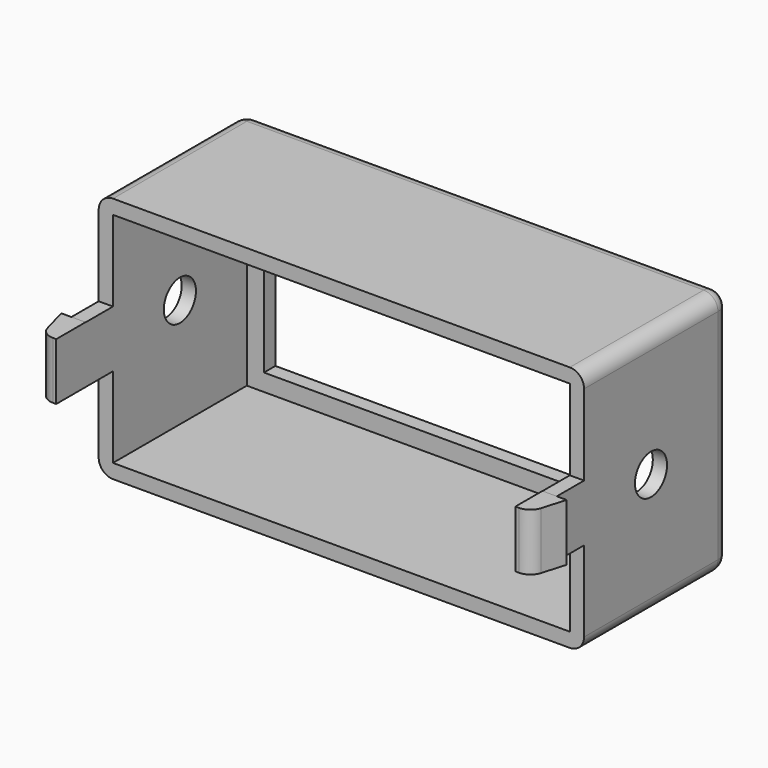
from build123d import *

# Parameters (mm, degrees)
F0_W      = 43.18
F0_H      = 21.971
F0_W_2    = 40.64
F0_H_2    = 19.431
F1_DEPTH  = 16.1544
F0_W_3    = 37.592
F0_H_3    = 16.383
F2_DEPTH  = 1.27
F3_R      = 1.27
F4_R      = 1.27
F5_R      = 1.785938
F6_DEPTH  = 7.62
F7_R      = 1.785938
F8_DEPTH  = 7.62
F9_W      = 1.27
F9_H      = 5.068467
F10_DEPTH = 3.05
F12_DEPTH = 5.08
F14_DEPTH = 5.08


with BuildPart() as f1:
    # F0 (on Front) → F1 (new body)
    with BuildSketch(Plane.XZ):
        Rectangle(F0_W, F0_H)
        Rectangle(F0_W_2, F0_H_2, mode=Mode.SUBTRACT)
    extrude(amount=F1_DEPTH)

    # F0 (on Front) → F2 (join)
    with BuildSketch(Plane.XZ):
        Rectangle(F0_W_2, F0_H_2)
        Rectangle(F0_W_3, F0_H_3, mode=Mode.SUBTRACT)
    extrude(amount=F2_DEPTH)

    # F3
    f3_edges = [f1.edges().sort_by_distance(p)[0] for p in [
        (-21.59, -8.0772, 10.9855),
        (-21.59, -8.0772, -10.9855),
        (21.59, -8.0772, -10.9855),
        (21.59, -8.0772, 10.9855),
    ]]
    fillet(f3_edges, radius=F3_R)

    # F4
    f4_edges = [f1.edges().sort_by_distance(p)[0] for p in [
        (0, 0, -10.9855),
    ]]
    fillet(f4_edges, radius=F4_R)

    # F5 (on face) → F6 (cut)
    with BuildSketch(Plane.YZ.offset(21.59)):
        with Locations((-8.7122, 0)):
            Circle(F5_R)
    extrude(amount=-F6_DEPTH, mode=Mode.SUBTRACT)

    # F7 (on face) → F8 (cut)
    with BuildSketch(Plane(origin=(-21.59, 0, 0), x_dir=(0, -1, 0), z_dir=(-1, 0, 0))):
        with Locations((8.7122, 0)):
            Circle(F7_R)
    extrude(amount=-F8_DEPTH, mode=Mode.SUBTRACT)

    # F9 (on face) → F10 (join)
    with BuildSketch(Plane.XZ.offset(16.1544)):
        with Locations((-20.955, -0.002476)):
            Rectangle(F9_W, F9_H)
        with Locations((20.955, -0.002476)):
            Rectangle(F9_W, F9_H)
    extrude(amount=F10_DEPTH)

    # F11 (on face) → F12 (join)
    with BuildSketch(Plane(origin=(0, 0, -2.53671), x_dir=(1, 0, 0), z_dir=(0, 0, -1))):
        with BuildLine():
            Line((20.32, 22.2044), (20.32, 19.2044))
            Line((20.32, 19.2044), (21.59, 19.2044))
            Line((21.59, 19.2044), (22.479, 19.2044))
            Line((22.479, 19.2044), (21.859416, 21.295234))
            ThreePointArc((21.859416, 21.295234), (21.401571, 21.952034), (20.641755, 22.2044))
            Line((20.641755, 22.2044), (20.32, 22.2044))
        make_face()
    extrude(amount=-F12_DEPTH)

    # F13 (on face) → F14 (join)
    with BuildSketch(Plane(origin=(0, 0, -2.53671), x_dir=(1, 0, 0), z_dir=(0, 0, -1))):
        with BuildLine():
            Line((-21.59, 19.2044), (-20.32, 19.2044))
            Line((-20.32, 19.2044), (-20.32, 22.46322))
            Line((-20.32, 22.46322), (-20.614604, 22.46322))
            ThreePointArc((-20.614604, 22.46322), (-21.384353, 22.203362), (-21.839101, 21.530127))
            Line((-21.839101, 21.530127), (-22.479, 19.2044))
            Line((-22.479, 19.2044), (-21.59, 19.2044))
        make_face()
    extrude(amount=-F14_DEPTH)


solid = f1.part
